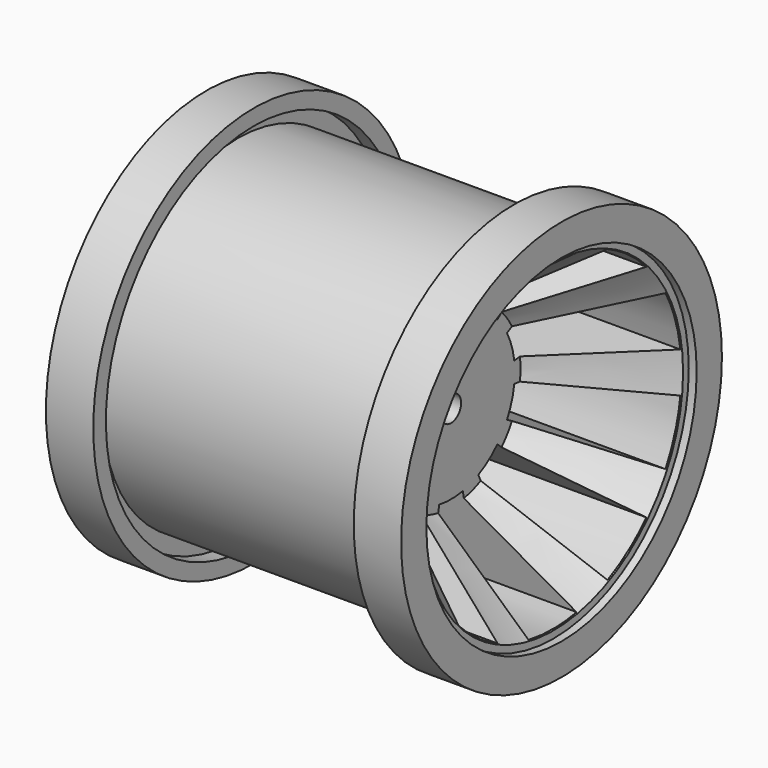
from build123d import *

# Parameters (mm, degrees)
SKETCH027_R        = 25.4
PAD009_DEPTH       = 22.5
POCKET015_DEPTH    = 214.544859
POLARPATTERN_COUNT = 10
SKETCH029_R        = 1.6
POCKET016_DEPTH    = 45.001
SKETCH030_R        = 21.4
POCKET017_DEPTH    = 1
SKETCH_R           = 21.4
POCKET_DEPTH       = 1
SKETCH031_R        = 10.1
POCKET018_DEPTH    = 19
SKETCH069_R        = 1.6
POCKET040_DEPTH    = 8
SKETCH035_R        = 10.1
POCKET020_DEPTH    = 13


with BuildPart() as part:
    # Sketch027 → Pad009 (new body, symmetric)
    with BuildSketch(Plane.YZ):
        Circle(SKETCH027_R)
    extrude(amount=PAD009_DEPTH, both=True)

    # Sketch028 (on Face3 of Pad009) → Pocket015 (cut, through all)
    with BuildSketch(Plane.YZ.offset(22.5)):
        with BuildLine():
            ThreePointArc((1.865103, 9.926298), (0, 10.1), (-1.865103, 9.926298))
            Line((-1.865103, 9.926298), (-3.806742, 20.041674))
            ThreePointArc((3.806742, 20.041674), (0, 20.4), (-3.806742, 20.041674))
            Line((3.806742, 20.041674), (1.865103, 9.926298))
        make_face()
    pocket015 = extrude(amount=-POCKET015_DEPTH, mode=Mode.SUBTRACT)

    # PolarPattern: Pocket015 ×10 about axis
    polarpattern_axis = Axis((22.5, 0, 0), (1, 0, 0))
    for i in range(1, POLARPATTERN_COUNT):
        add(pocket015.rotate(polarpattern_axis, i * 360 / POLARPATTERN_COUNT), mode=Mode.SUBTRACT)

    # Sketch033 → Groove (revolve, cut)
    with BuildSketch(Plane.XZ):
        Polygon((-16.5, 25.4), (16.5, 25.4), (16.5, 23.4), (18.5, 23.4), (18.5, 21.4), (-18.5, 21.4), (-18.5, 23.4), (-16.5, 23.4), align=None)
    revolve(axis=Axis((0, 0, 0), (1, 0, 0)), mode=Mode.SUBTRACT)

    # Sketch029 (on Face3 of PolarPattern) → Pocket016 (cut, through all)
    with BuildSketch(Plane.YZ.offset(22.5)):
        Circle(SKETCH029_R)
    extrude(amount=-POCKET016_DEPTH, mode=Mode.SUBTRACT)

    # Sketch030 (on Face2 of Pocket016) → Pocket017 (cut)
    with BuildSketch(Plane(origin=(-22.5, 0, 0), x_dir=(0, 1, 0), z_dir=(-1, 0, 0))):
        Circle(SKETCH030_R)
    extrude(amount=-POCKET017_DEPTH, mode=Mode.SUBTRACT)

    # Sketch (on Face50 of Pocket017) → Pocket (cut)
    with BuildSketch(Plane.YZ.offset(22.5)):
        Circle(SKETCH_R)
    extrude(amount=-POCKET_DEPTH, mode=Mode.SUBTRACT)

    # Sketch031 (on Face6 of Pocket017) → Pocket018 (cut)
    with BuildSketch(Plane(origin=(-21.5, 0, 0), x_dir=(0, 1, 0), z_dir=(-1, 0, 0))):
        Circle(SKETCH031_R)
    extrude(amount=-POCKET018_DEPTH, mode=Mode.SUBTRACT)

    # Sketch069 (on Face52 of Pocket018) → Pocket040 (cut)
    with BuildSketch(Plane(origin=(-2.5, 0, 0), x_dir=(0, 1, 0), z_dir=(-1, 0, 0))):
        with Locations((-7.071068, 0)):
            Circle(SKETCH069_R)
        with Locations((0, 7.071068)):
            Circle(SKETCH069_R)
        with Locations((7.071068, 0)):
            Circle(SKETCH069_R)
        with Locations((0, -7.071068)):
            Circle(SKETCH069_R)
    extrude(amount=-POCKET040_DEPTH, mode=Mode.SUBTRACT)

    # Sketch035 (on Face50 of Pocket040) → Pocket020 (cut)
    with BuildSketch(Plane.YZ.offset(21.5)):
        Circle(SKETCH035_R)
    extrude(amount=-POCKET020_DEPTH, mode=Mode.SUBTRACT)

    # Cone → Cone (revolve, cut)
    with BuildSketch(Plane(origin=(8.5, 0, 0), x_dir=(0, 1, 0), z_dir=(0, 0, -1))):
        Polygon((0, 0), (11, 0), (20.5, 13), (0, 13), align=None)
    revolve(axis=Axis((8.5, 0, 0), (1, 0, 0)), mode=Mode.SUBTRACT)

    # Cone001 → Cone001 (revolve, cut)
    with BuildSketch(Plane(origin=(-2.5, 0, 0), x_dir=(0, 1, 0), z_dir=(0, 0, 1))):
        Polygon((0, 0), (11, 0), (20.5, 19), (0, 19), align=None)
    revolve(axis=Axis((-2.5, 0, 0), (-1, 0, 0)), mode=Mode.SUBTRACT)


with BuildPart() as part_1:
    # Body006 placement: moved
    add(part.part.moved(Location((7.1, 0, 0))))


solid = part_1.part
